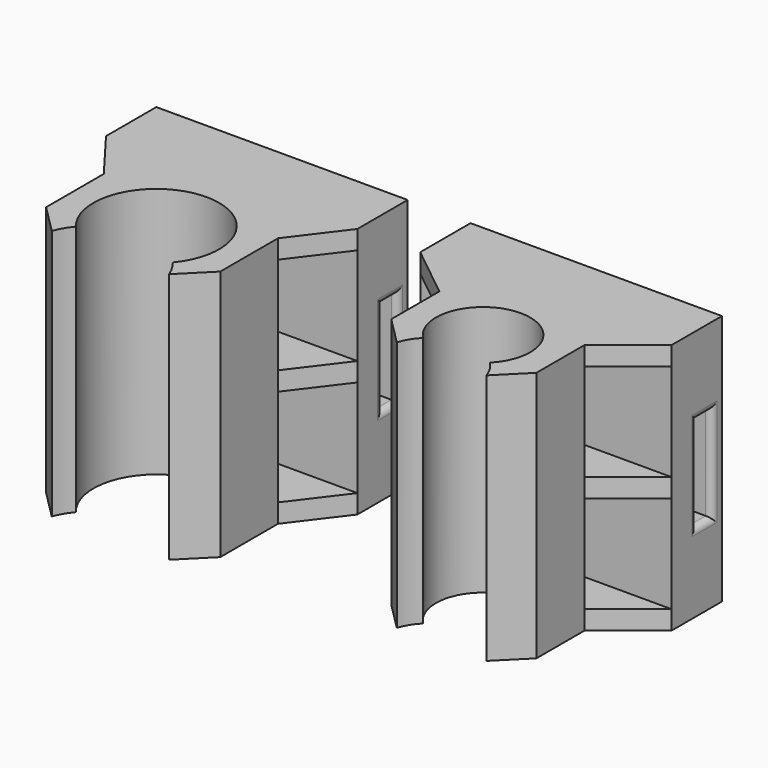
from build123d import *

# Parameters (mm, degrees)
SKETCH_W               = 40
SKETCH_H               = 40
PAD_DEPTH              = 10
SKETCH001_W            = 3
SKETCH001_H            = 15
POCKET_DEPTH           = 40
POCKET_DEPTH_BACK      = 40
PAD001_DEPTH           = 20
PAD001_DEPTH_BACK      = 20
PAD002_DEPTH           = 1.5
PAD002_DEPTH_BACK      = 1.5
FILLET_R               = 1
LINEARPATTERN_COUNT    = 2
LINEARPATTERN_PITCH    = 18.5
LINEARPATTERN001_COUNT = 2
LINEARPATTERN001_PITCH = 18.5
SKETCH003_R            = 10
POCKET001_DEPTH        = 20
POCKET001_DEPTH_BACK   = 20
SKETCH005_R            = 10
POCKET002_DEPTH        = 20
POCKET002_DEPTH_BACK   = 20
SKETCH006_W            = 40
SKETCH006_H            = 40
PAD003_DEPTH           = 10
SKETCH009_W            = 3
SKETCH009_H            = 15
POCKET003_DEPTH        = 40
POCKET003_DEPTH_BACK   = 40
PAD004_DEPTH           = 20
PAD004_DEPTH_BACK      = 20
PAD005_DEPTH           = 1.5
PAD005_DEPTH_BACK      = 1.5
FILLET001_R            = 1
LINEARPATTERN003_COUNT = 2
LINEARPATTERN003_PITCH = 18.5
LINEARPATTERN002_COUNT = 2
LINEARPATTERN002_PITCH = 18.5
SKETCH010_R            = 7.5
POCKET004_DEPTH        = 20
POCKET004_DEPTH_BACK   = 20
SKETCH011_R            = 7.5
POCKET005_DEPTH        = 20
POCKET005_DEPTH_BACK   = 20


with BuildPart() as large_holder:
    # Sketch → Pad (new body)
    with BuildSketch(Plane.XZ):
        Rectangle(SKETCH_W, SKETCH_H)
    extrude(amount=-PAD_DEPTH)

    # Sketch001 → Pocket (cut, two sides)
    with BuildSketch(Plane.YZ) as pocket_sk:
        with Locations((6.5, 0)):
            Rectangle(SKETCH001_W, SKETCH001_H)
    extrude(amount=-POCKET_DEPTH, mode=Mode.SUBTRACT)
    extrude(pocket_sk.sketch, amount=POCKET_DEPTH_BACK, mode=Mode.SUBTRACT)

    # Sketch002 → Pad001 (join, two sides)
    with BuildSketch(Plane.XY) as pad001_sk:
        Polygon((5.740251, -27.716386), (13.858193, -19.598444), (13.858193, -8.117942), (5.740251, 0), (-5.740251, 0), (-13.858193, -8.117942), (-13.858193, -19.598444), (-5.740251, -27.716386), align=None)
    extrude(amount=PAD001_DEPTH)
    extrude(pad001_sk.sketch, amount=-PAD001_DEPTH_BACK)

    # Sketch004 → Pad002 (join, two sides)
    with BuildSketch(Plane.XY) as pad002_sk:
        Polygon((-20, 0), (-13.858193, -8.117942), (-5.740251, 0), align=None)
        Polygon((5.740251, 0), (20, 0), (13.858193, -8.117942), align=None)
    pad002 = extrude(amount=PAD002_DEPTH) + extrude(pad002_sk.sketch, amount=-PAD002_DEPTH_BACK)

    # Fillet
    fillet_edges = [large_holder.edges().sort_by_distance(p)[0] for p in [
        (20, 5, 0),
        (20, 6.5, 7.5),
        (20, 8, 0),
        (20, 6.5, -7.5),
        (-20, 6.5, 7.5),
        (-20, 5, 0),
        (-20, 8, 0),
        (-20, 6.5, -7.5),
    ]]
    fillet(fillet_edges, radius=FILLET_R)

    # LinearPattern: Pad002 ×2
    with Locations(*[(0, 0, -i * LINEARPATTERN_PITCH) for i in range(1, LINEARPATTERN_COUNT)]):
        add(pad002)

    # LinearPattern001: Pad002 ×2
    with Locations(*[(0, 0, i * LINEARPATTERN001_PITCH) for i in range(1, LINEARPATTERN001_COUNT)]):
        add(pad002)

    # Sketch003 → Pocket001 (cut, two sides)
    with BuildSketch(Plane.XY) as pocket001_sk:
        with Locations((0, -15)):
            Circle(SKETCH003_R)
    extrude(amount=-POCKET001_DEPTH, mode=Mode.SUBTRACT)
    extrude(pocket001_sk.sketch, amount=POCKET001_DEPTH_BACK, mode=Mode.SUBTRACT)

    # Sketch005 → Pocket002 (cut, two sides)
    with BuildSketch(Plane.XY) as pocket002_sk:
        with Locations((0, -27.716386)):
            Circle(SKETCH005_R)
    extrude(amount=-POCKET002_DEPTH, mode=Mode.SUBTRACT)
    extrude(pocket002_sk.sketch, amount=POCKET002_DEPTH_BACK, mode=Mode.SUBTRACT)


with BuildPart() as small_holder:
    # Sketch006 → Pad003 (new body)
    with BuildSketch(Plane.XZ):
        Rectangle(SKETCH006_W, SKETCH006_H)
    extrude(amount=-PAD003_DEPTH)

    # Sketch009 → Pocket003 (cut, two sides)
    with BuildSketch(Plane.YZ) as pocket003_sk:
        with Locations((6.5, 0)):
            Rectangle(SKETCH009_W, SKETCH009_H)
    extrude(amount=-POCKET003_DEPTH, mode=Mode.SUBTRACT)
    extrude(pocket003_sk.sketch, amount=POCKET003_DEPTH_BACK, mode=Mode.SUBTRACT)

    # Sketch007 → Pad004 (join, two sides)
    with BuildSketch(Plane.XY) as pad004_sk:
        Polygon((4.783543, -23.096988), (11.548494, -16.332037), (11.548494, -6.764951), (4.783543, 0), (-4.783543, 0), (-11.548494, -6.764951), (-11.548494, -16.332037), (-4.783543, -23.096988), align=None)
    extrude(amount=PAD004_DEPTH)
    extrude(pad004_sk.sketch, amount=-PAD004_DEPTH_BACK)

    # Sketch008 → Pad005 (join, two sides)
    with BuildSketch(Plane.XY) as pad005_sk:
        Polygon((-20, 0), (-11.548494, -6.764951), (-4.783543, 0), align=None)
        Polygon((4.783543, 0), (20, 0), (11.548494, -6.764951), align=None)
    pad005 = extrude(amount=PAD005_DEPTH) + extrude(pad005_sk.sketch, amount=-PAD005_DEPTH_BACK)

    # Fillet001
    fillet001_edges = [small_holder.edges().sort_by_distance(p)[0] for p in [
        (20, 5, 0),
        (20, 6.5, 7.5),
        (20, 8, 0),
        (20, 6.5, -7.5),
        (-20, 6.5, 7.5),
        (-20, 5, 0),
        (-20, 8, 0),
        (-20, 6.5, -7.5),
    ]]
    fillet(fillet001_edges, radius=FILLET001_R)

    # LinearPattern003: Pad005 ×2
    with Locations(*[(0, 0, -i * LINEARPATTERN003_PITCH) for i in range(1, LINEARPATTERN003_COUNT)]):
        add(pad005)

    # LinearPattern002: Pad005 ×2
    with Locations(*[(0, 0, i * LINEARPATTERN002_PITCH) for i in range(1, LINEARPATTERN002_COUNT)]):
        add(pad005)

    # Sketch010 → Pocket004 (cut, two sides)
    with BuildSketch(Plane.XY) as pocket004_sk:
        with Locations((0, -12.5)):
            Circle(SKETCH010_R)
    extrude(amount=-POCKET004_DEPTH, mode=Mode.SUBTRACT)
    extrude(pocket004_sk.sketch, amount=POCKET004_DEPTH_BACK, mode=Mode.SUBTRACT)

    # Sketch011 → Pocket005 (cut, two sides)
    with BuildSketch(Plane.XY) as pocket005_sk:
        with Locations((0, -23.096988)):
            Circle(SKETCH011_R)
    extrude(amount=-POCKET005_DEPTH, mode=Mode.SUBTRACT)
    extrude(pocket005_sk.sketch, amount=POCKET005_DEPTH_BACK, mode=Mode.SUBTRACT)


with BuildPart() as small_holder_1:
    # Body001 placement: moved
    add(small_holder.part.moved(Location((50, 0, 0))))


solid = Compound([large_holder.part, small_holder_1.part])
